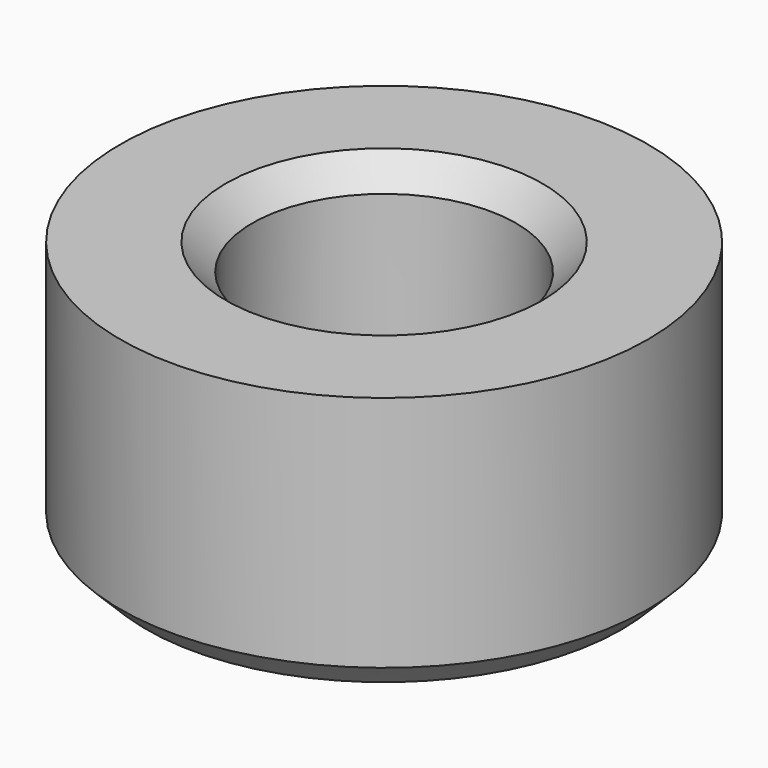
from build123d import *

# Parameters (mm, degrees)
F0_R     = 50
F0_R_2   = 24.99
F1_DEPTH = 50
F2_SIZE  = 5
F3_SIZE  = 5


with BuildPart() as f1:
    # F0 (on Top) → F1 (new body)
    with BuildSketch(Plane.XY):
        Circle(F0_R)
        Circle(F0_R_2, mode=Mode.SUBTRACT)
    extrude(amount=F1_DEPTH)

    # F2
    f2_edges = [f1.edges().sort_by_distance(p)[0] for p in [
        (-24.99, 0, 50),
    ]]
    chamfer(f2_edges, length=F2_SIZE)

    # F3
    f3_edges = [f1.edges().sort_by_distance(p)[0] for p in [
        (-50, 0, 0),
    ]]
    chamfer(f3_edges, length=F3_SIZE)


solid = f1.part
